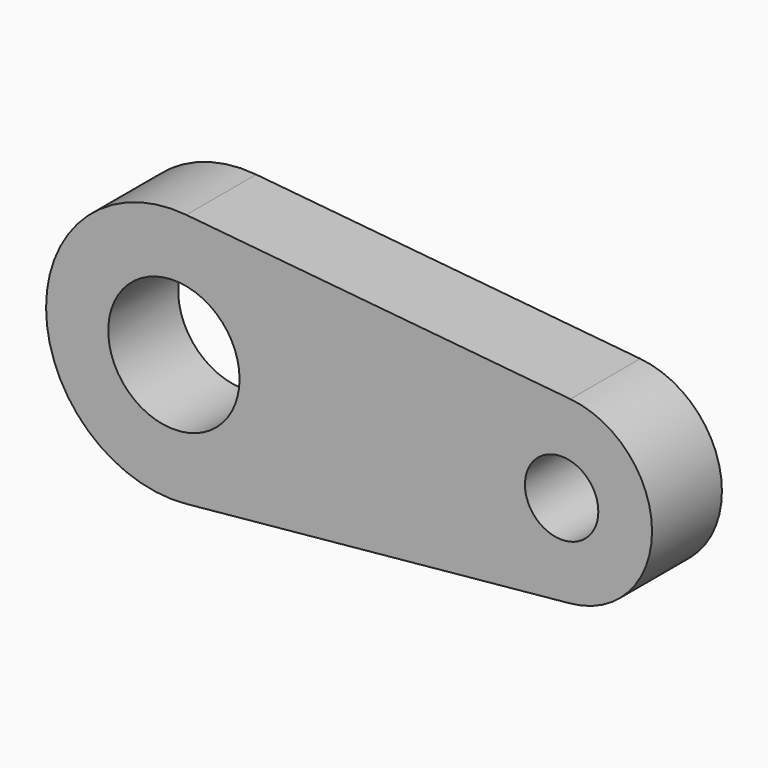
from build123d import *

# Parameters (mm, degrees)
F0_R     = 19.08734
F0_R_2   = 10.668378
F1_DEPTH = 25.4


with BuildPart() as f1:
    # F0 (on Front) → F1 (new body)
    with BuildSketch(Plane.XZ):
        with BuildLine():
            Line((115.265532, 26.16193), (3.586851, 36.99093))
            ThreePointArc((3.586851, 36.99093), (-37.164423, 0), (3.586851, -36.99093))
            Line((3.586851, -36.99093), (115.265532, -26.16193))
            ThreePointArc((115.265532, -26.16193), (139.013356, 0), (115.265532, 26.16193))
        make_face()
        Circle(F0_R, mode=Mode.SUBTRACT)
        with Locations((112.728722, 0)):
            Circle(F0_R_2, mode=Mode.SUBTRACT)
    extrude(amount=F1_DEPTH)


solid = f1.part
